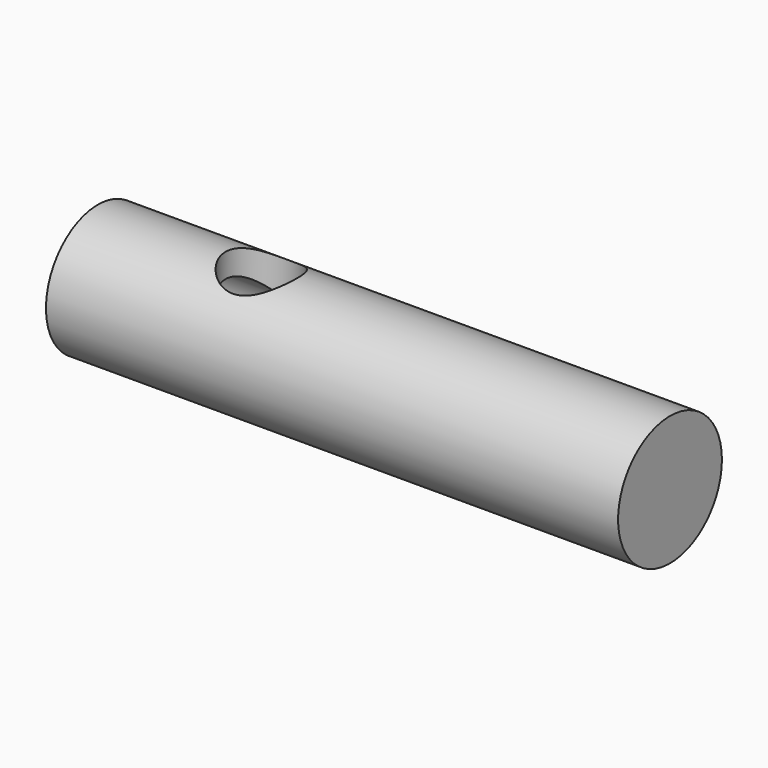
from build123d import *

# Parameters (mm, degrees)
F0_R     = 3.175
F1_DEPTH = 28
F2_R     = 2
F3_DEPTH = 10
F4_R     = 1.75
F5_DEPTH = 3.176


with BuildPart() as f1:
    # F0 (on Right) → F1 (new body)
    with BuildSketch(Plane.YZ):
        Circle(F0_R)
    extrude(amount=F1_DEPTH)

    # F2 (on face) → F3 (cut)
    with BuildSketch(Plane(origin=(0, 0, 0), x_dir=(0, -1, 0), z_dir=(-1, 0, 0))):
        Circle(F2_R)
    extrude(amount=-F3_DEPTH, mode=Mode.SUBTRACT)

    # F4 (on Top) → F5 (cut, through all)
    with BuildSketch(Plane.XY):
        with Locations((8, 0)):
            Circle(F4_R)
    extrude(amount=F5_DEPTH, mode=Mode.SUBTRACT)


solid = f1.part
